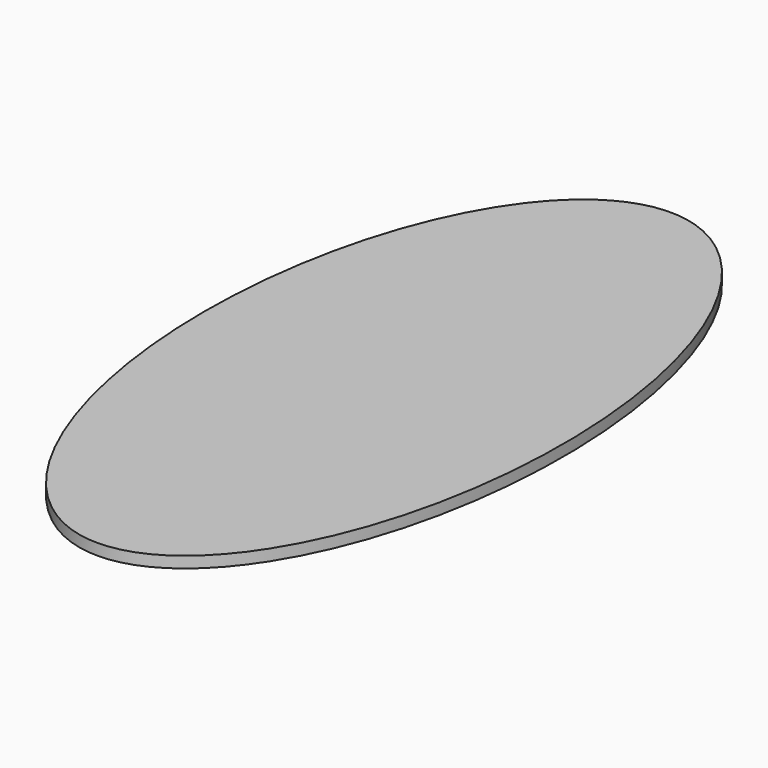
from build123d import *

# Parameters (mm, degrees)
F1_DEPTH = 3


with BuildPart() as f1:
    # F0 (on Top) → F1 (new body)
    with BuildSketch(Plane.XY):
        with BuildLine():
            add(Edge.make_bspline(
                [(0, -95.308758), (82.723739, -95.308758), (41.361869, 47.654379), (0, 190.617517), (-41.361869, 47.654379), (-82.723739, -95.308758), (0, -95.308758)],
                knots=[0, 0, 0, 2.094395, 2.094395, 4.18879, 4.18879, 6.283185, 6.283185, 6.283185], degree=2, weights=[1, 0.5, 1, 0.5, 1, 0.5, 1]))
        make_face()
    extrude(amount=-F1_DEPTH)


solid = f1.part
